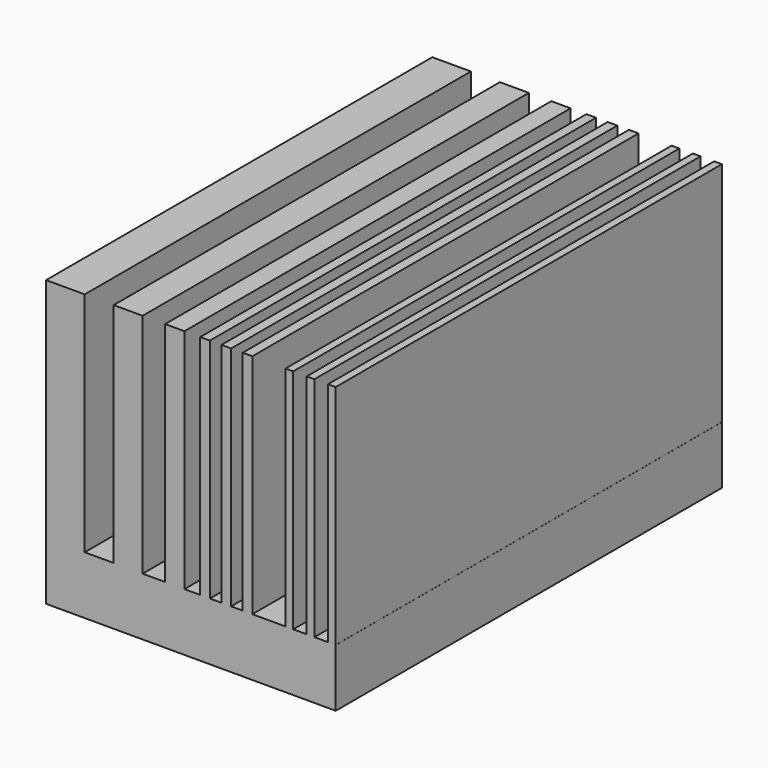
from build123d import *

# Parameters (mm, degrees)
F0_W     = 5.08
F0_H     = 25.4
F0_W_2   = 2.54
F0_W_3   = 3.81
F1_DEPTH = 40
F3_W     = 2
F3_H     = 11.758205078
F3_W_2   = 1.5
F3_W_3   = 1
F3_W_4   = 0.4
F3_W_5   = 0.5
F4_DEPTH = 12.5


with BuildPart() as f1:
    # F0 (on Front) → F1 (new body)
    with BuildSketch(Plane.XZ):
        Polygon((-39.5374095005, -17.8057016992), (-44.6174095005, -17.8057016992), (-44.6174095005, -22.8857016992), (56.9825904995, -22.8857016992), (56.9825904995, -17.8057016992), (51.9025904995, -17.8057016992), (40.6538585508, -17.8057016992), (38.1138585508, -17.8057016992), (25.9218535846, -17.8057016992), (22.1118535846, -17.8057016992), (8.1349273361, -17.8057016992), (3.0549273361, -17.8057016992), (-17.8261825508, -17.8057016992), (-20.3661825508, -17.8057016992), (-27.4666358256, -17.8057016992), (-31.2766358256, -17.8057016992), align=None)
        with Locations((54.4425904995, -5.1057016992)):
            Rectangle(F0_W, F0_H)
        with Locations((39.3838585508, -5.1057016992)):
            Rectangle(F0_W_2, F0_H)
        with Locations((24.0168535846, -5.1057016992)):
            Rectangle(F0_W_3, F0_H)
        with Locations((5.5949273361, -5.1057016992)):
            Rectangle(F0_W, F0_H)
        with Locations((-29.3716358256, -5.1057016992)):
            Rectangle(F0_W_3, F0_H)
        with Locations((-42.0774095005, -5.1057016992)):
            Rectangle(F0_W, F0_H)
        with Locations((-19.0961825508, -5.1057016992)):
            Rectangle(F0_W_2, F0_H)
    extrude(amount=F1_DEPTH)


with BuildPart() as f4:
    # F3 (on Front) → F4 (new body, symmetric)
    with BuildSketch(Plane.XZ):
        with Locations((-14.0355701865, -5.879102539)):
            Rectangle(F3_W, F3_H)
        Polygon((-13.0355701865, -11.758205078), (-15.0355701865, -11.758205078), (-15.0355701865, -14.758205078), (-0.0355701865, -14.758205078), (-0.0355701865, -11.758205078), (-0.0385628735, -11.758205078), (-0.4385628735, -11.758205078), (-1.1385628735, -11.758205078), (-1.5385628735, -11.758205078), (-2.2385628735, -11.758205078), (-2.6385628735, -11.758205078), (-4.3532104, -11.758205078), (-4.8532104, -11.758205078), (-5.4532104, -11.758205078), (-5.9532104, -11.758205078), (-6.5532104, -11.758205078), (-7.0532104, -11.758205078), (-7.870703689, -11.758205078), (-8.870703689, -11.758205078), (-10.0352638757, -11.758205078), (-11.5352638757, -11.758205078), align=None)
        with Locations((-10.7852638757, -5.879102539)):
            Rectangle(F3_W_2, F3_H)
        with Locations((-8.370703689, -5.879102539)):
            Rectangle(F3_W_3, F3_H)
        with Locations((-0.2385628735, -5.879102539)):
            Rectangle(F3_W_4, F3_H)
        with Locations((-6.8032104, -5.879102539)):
            Rectangle(F3_W_5, F3_H)
        with Locations((-1.3385628735, -5.879102539)):
            Rectangle(F3_W_4, F3_H)
        with Locations((-5.7032104, -5.879102539)):
            Rectangle(F3_W_5, F3_H)
        with Locations((-2.4385628735, -5.879102539)):
            Rectangle(F3_W_4, F3_H)
        with Locations((-4.6032104, -5.879102539)):
            Rectangle(F3_W_5, F3_H)
    extrude(amount=F4_DEPTH, both=True)


solid = f4.part
